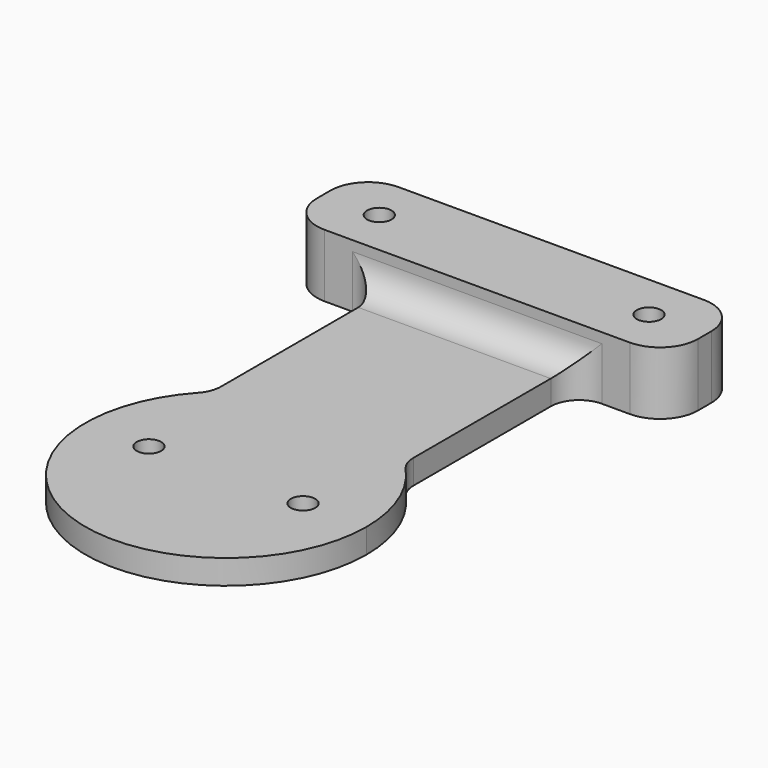
from build123d import *

# Parameters (mm, degrees)
F1_DEPTH = 3.175
F3_DEPTH = 5
F4_R     = 3.6792614691
F5_R     = 1.5875
F6_DEPTH = 24.13
F7_DEPTH = 25.4
F8_R     = 4.9056819587


with BuildPart() as f1:
    # F0 (on Top) → F1 (new body)
    with BuildSketch(Plane.XY):
        with BuildLine():
            ThreePointArc((-12.4973059814, 13.2996181602), (0, 18.25), (12.4973059814, 13.2996181602))
            Line((12.4973059814, 13.2996181602), (12.4973059814, 40.75))
            Line((12.4973059814, 40.75), (24.7193473562, 40.75))
            Line((24.7193473562, 40.75), (24.7193473562, 52.75))
            Line((24.7193473562, 52.75), (-24.7193473562, 52.75))
            Line((-24.7193473562, 52.75), (-24.7193473562, 40.75))
            Line((-24.7193473562, 40.75), (-12.4973059814, 40.75))
            Line((-12.4973059814, 40.75), (-12.4973059814, 13.2996181602))
        make_face()
        with BuildLine():
            ThreePointArc((-12.4973059814, 13.2996181602), (-7.2452282862, -16.7501990161), (18.25, 0))
            ThreePointArc((18.25, 0), (16.7501990161, 7.2452282862), (12.4973059814, 13.2996181602))
            ThreePointArc((12.4973059814, 13.2996181602), (0, 18.25), (-12.4973059814, 13.2996181602))
        make_face()
    extrude(amount=F1_DEPTH)

    # F2 (on face) → F3 (join)
    with BuildSketch(Plane.XY.offset(3.175)):
        Polygon((-24.7193473562, 40.75), (-12.4973059814, 40.75), (12.4973059814, 40.75), (24.7193473562, 40.75), (24.7193473562, 52.75), (-24.7193473562, 52.75), align=None)
    extrude(amount=F3_DEPTH)

    # F4
    f4_edges = [f1.edges().sort_by_distance(p)[0] for p in [
        (12.497306, 13.299618, 1.5875),
        (-12.497306, 13.299618, 1.5875),
        (12.497306, 40.75, 1.5875),
        (0, 40.75, 3.175),
        (-12.497306, 40.75, 1.5875),
    ]]
    fillet(f4_edges, radius=F4_R)

    # F5 (on face) → F6 (cut)
    with BuildSketch(Plane.XY.offset(3.175)):
        with Locations((-10, 0)):
            Circle(F5_R)
        with Locations((10, 0)):
            Circle(F5_R)
        with Locations((17.5, 46.75)):
            Circle(F5_R)
        with Locations((-17.5, 46.75)):
            Circle(F5_R)
    extrude(amount=F6_DEPTH, mode=Mode.SUBTRACT)

    # F5 (on face) → F7 (cut)
    with BuildSketch(Plane.XY.offset(3.175)):
        with Locations((-10, 0)):
            Circle(F5_R)
        with Locations((10, 0)):
            Circle(F5_R)
        with Locations((17.5, 46.75)):
            Circle(F5_R)
        with Locations((-17.5, 46.75)):
            Circle(F5_R)
    extrude(amount=-F7_DEPTH, mode=Mode.SUBTRACT)

    # F8
    f8_edges = [f1.edges().sort_by_distance(p)[0] for p in [
        (24.719347, 40.75, 4.0875),
        (24.719347, 52.75, 4.0875),
        (-24.719347, 52.75, 4.0875),
        (-24.719347, 40.75, 4.0875),
    ]]
    fillet(f8_edges, radius=F8_R)


solid = f1.part
